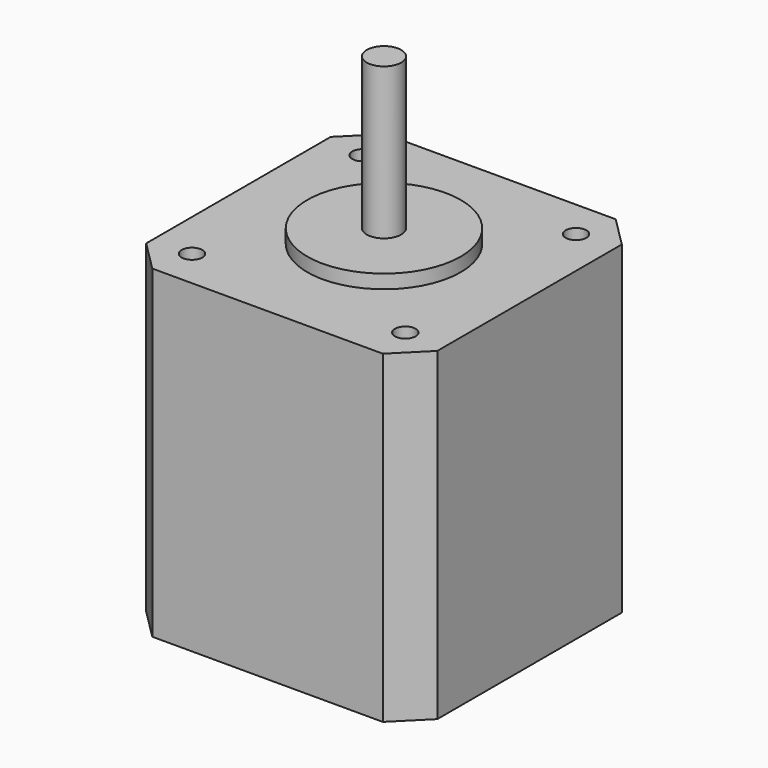
from build123d import *

# Parameters (mm, degrees)
F0_R     = 1.5
F0_R_2   = 11.15
F0_R_3   = 2.5
F1_DEPTH = 47.1
F2_DEPTH = 2
F3_DEPTH = 24


with BuildPart() as f1:
    # F0 (on Top) → F1 (new body)
    with BuildSketch(Plane.XY):
        Polygon((-16.75, 21.15), (-21.15, 16.75), (-21.15, -16.75), (-16.75, -21.15), (16.75, -21.15), (21.15, -16.75), (21.15, 16.75), (16.75, 21.15), align=None)
        with Locations((-15.5, -15.5)):
            Circle(F0_R, mode=Mode.SUBTRACT)
        with Locations((15.5, -15.5)):
            Circle(F0_R, mode=Mode.SUBTRACT)
        with Locations((-15.5, 15.5)):
            Circle(F0_R, mode=Mode.SUBTRACT)
        Circle(F0_R_2, mode=Mode.SUBTRACT)
        with Locations((15.5, 15.5)):
            Circle(F0_R, mode=Mode.SUBTRACT)
        Circle(F0_R_2)
        Circle(F0_R_3, mode=Mode.SUBTRACT)
    extrude(amount=-F1_DEPTH)

    # F0 (on Top) → F2 (join)
    with BuildSketch(Plane.XY):
        Circle(F0_R_2)
        Circle(F0_R_3, mode=Mode.SUBTRACT)
    extrude(amount=F2_DEPTH)

    # F0 (on Top) → F3 (join)
    with BuildSketch(Plane.XY):
        Circle(F0_R_3)
    extrude(amount=F3_DEPTH)


solid = f1.part
